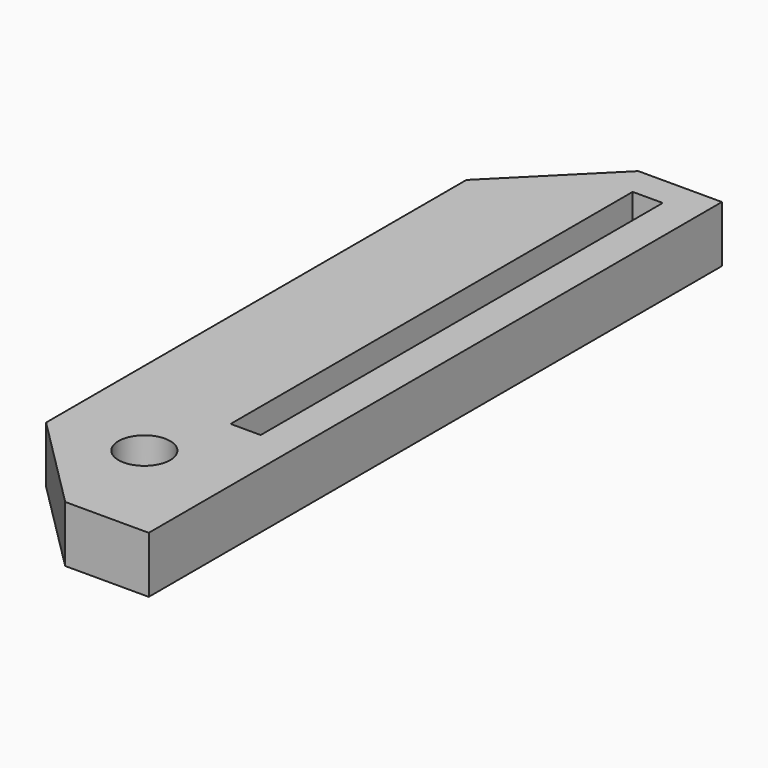
from build123d import *

# Parameters (mm, degrees)
F0_W     = 19.05
F0_H     = 76.2
F0_R     = 2.75
F0_W_2   = 3.2
F0_H_2   = 53.453924
F1_DEPTH = 6
F2_SIZE  = 10.16


with BuildPart() as f1:
    # F0 (on Top) → F1 (new body)
    with BuildSketch(Plane.XY):
        Rectangle(F0_W, F0_H)
        with Locations((0, -26.778195)):
            Circle(F0_R, mode=Mode.SUBTRACT)
        with Locations((4.196676, 8.165839)):
            Rectangle(F0_W_2, F0_H_2, mode=Mode.SUBTRACT)
    extrude(amount=F1_DEPTH)

    # F2
    f2_edges = [f1.edges().sort_by_distance(p)[0] for p in [
        (-9.525, 38.1, 3),
        (-9.525, -38.1, 3),
    ]]
    chamfer(f2_edges, length=F2_SIZE)


solid = f1.part
